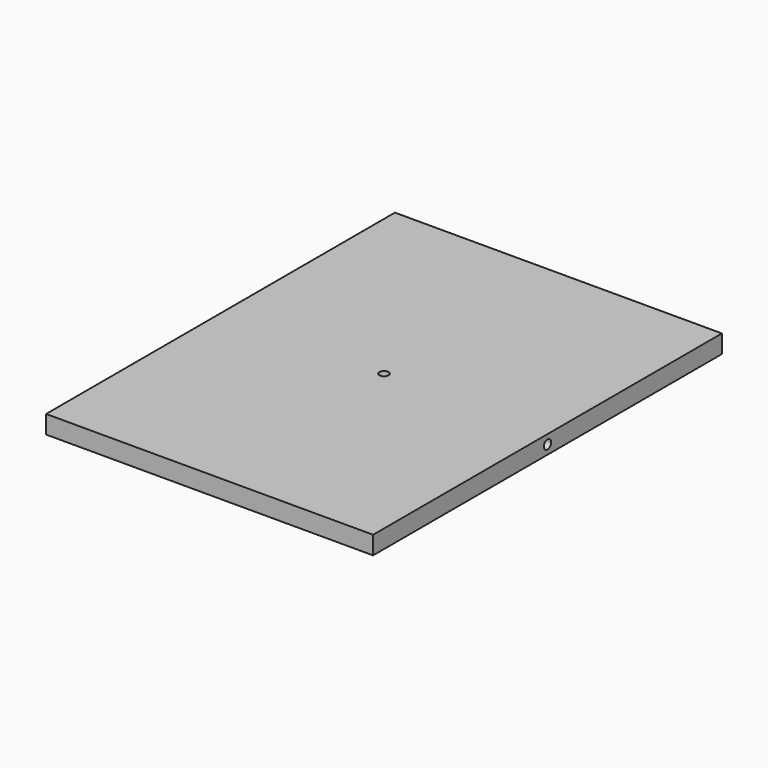
from build123d import *

# Parameters (mm, degrees)
F0_W     = 457.2
F0_H     = 609.6
F1_DEPTH = 25.4
F2_R     = 6.35
F3_DEPTH = 762
F4_R     = 6.35
F5_DEPTH = 25.4


with BuildPart() as f1:
    # F0 (on Top) → F1 (new body)
    with BuildSketch(Plane.XY):
        Rectangle(F0_W, F0_H)
    extrude(amount=F1_DEPTH)

    # F2 (on face) → F3 (cut)
    with BuildSketch(Plane.YZ.offset(228.6)):
        with Locations((0, 12.7)):
            Circle(F2_R)
    extrude(amount=-F3_DEPTH, mode=Mode.SUBTRACT)

    # F4 (on face) → F5 (cut)
    with BuildSketch(Plane.XY.offset(25.4)):
        Circle(F4_R)
    extrude(amount=-F5_DEPTH, mode=Mode.SUBTRACT)


solid = f1.part
